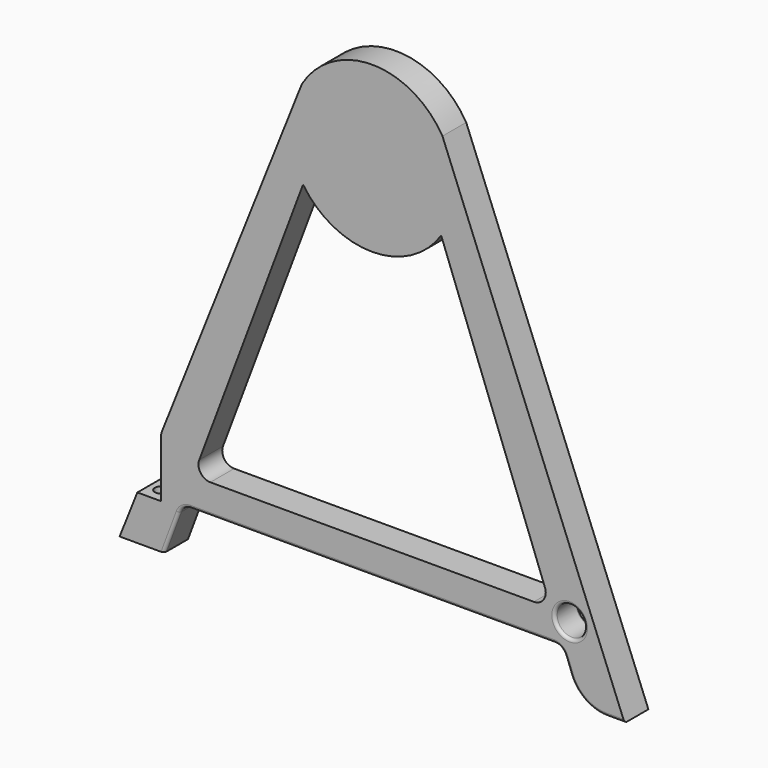
from build123d import *

# Parameters (mm, degrees)
PAD_DEPTH       = 10
FILLET_R        = 4
SKETCH002_R     = 2.1
POCKET001_DEPTH = 167.501
SKETCH003_W     = 26
SKETCH003_H     = 25
POCKET002_DEPTH = 10.001
SKETCH004_R     = 5
POCKET003_DEPTH = 10.001
FILLET001_R     = 2
FILLET002_R     = 1
FILLET003_R     = 13
FILLET004_R     = 1
SKETCH005_R     = 9.7
POCKET004_DEPTH = 6.2
FILLET005_R     = 1
SKETCH006_R     = 9.7
POCKET_DEPTH    = 6.2


with BuildPart() as part:
    # Sketch → Pad (new body)
    with BuildSketch(Plane.XZ):
        with BuildLine():
            ThreePointArc((23.669601, 154), (0, 167.5), (-23.669601, 154))
            Line((-23.669601, 154), (-85, 0))
            Line((-85, 0), (-70, 0))
            Line((-70, 0), (-63.987018, 16))
            Line((-63.987018, 16), (63.987018, 16))
            Line((63.987018, 16), (70, 0))
            Line((70, 0), (85, 0))
            Line((85, 0), (23.669601, 154))
        make_face()
        with BuildLine():
            Line((-60.228905, 26), (60.228905, 26))
            Line((23.25, 124.397516), (60.228905, 26))
            ThreePointArc((-23.25, 124.397516), (0, 112), (23.25, 124.397516))
            Line((-60.228905, 26), (-23.25, 124.397516))
        make_face(mode=Mode.SUBTRACT)
    extrude(amount=PAD_DEPTH)

    # Fillet
    fillet_edges = [part.edges().sort_by_distance(p)[0] for p in [
        (-63.987018, -5, 16),
        (-60.228905, -5, 26),
        (60.228905, -5, 26),
        (63.987018, -5, 16),
    ]]
    fillet(fillet_edges, radius=FILLET_R)

    # Sketch002 → Pocket001 (cut, through all)
    with BuildSketch(Plane(origin=(0, 0, 0), x_dir=(1, 0, 0), z_dir=(0, 0, -1))):
        with Locations((-75, 5)):
            Circle(SKETCH002_R)
    extrude(amount=-POCKET001_DEPTH, mode=Mode.SUBTRACT)

    # Sketch003 (on Face5 of Pocket001) → Pocket002 (cut, through all)
    with BuildSketch(Plane.XZ.offset(10)):
        with Locations((-84, 27.5)):
            Rectangle(SKETCH003_W, SKETCH003_H)
    extrude(amount=-POCKET002_DEPTH, mode=Mode.SUBTRACT)

    # Sketch004 → Pocket003 (cut, through all)
    with BuildSketch(Plane.XZ.offset(10)):
        with Locations((66.5, 24)):
            Circle(SKETCH004_R)
    extrude(amount=-POCKET003_DEPTH, mode=Mode.SUBTRACT)

    # Fillet001
    fillet001_edges = [part.edges().sort_by_distance(p)[0] for p in [
        (-23.669601, -5, 154),
        (-71, -5, 35.153856),
    ]]
    fillet(fillet001_edges, radius=FILLET001_R)

    # Fillet002
    fillet002_edges = [part.edges().sort_by_distance(p)[0] for p in [
        (61.5, -10, 24),
    ]]
    fillet(fillet002_edges, radius=FILLET002_R)

    # Fillet003
    fillet003_edges = [part.edges().sort_by_distance(p)[0] for p in [
        (70, -5, 0),
    ]]
    fillet(fillet003_edges, radius=FILLET003_R)

    # Fillet004
    fillet004_edges = [part.edges().sort_by_distance(p)[0] for p in [
        (63.494331, -10, 15.288512),
        (65.897287, -10, 10.916949),
    ]]
    fillet(fillet004_edges, radius=FILLET004_R)

    # Sketch005 (on Face1 of Fillet004) → Pocket004 (cut)
    with BuildSketch(Plane(origin=(0, 0, 0), x_dir=(1, 0, 0), z_dir=(0, 0, -1))):
        with Locations((0, -140)):
            Circle(SKETCH005_R)
    extrude(amount=-POCKET004_DEPTH, mode=Mode.SUBTRACT)

    # Fillet005
    fillet005_edges = [part.edges().sort_by_distance(p)[0] for p in [
        (61.5, 0, 24),
    ]]
    fillet(fillet005_edges, radius=FILLET005_R)

    # Sketch006 (on Face1 of Fillet005) → Pocket (cut)
    with BuildSketch(Plane(origin=(0, 0, 0), x_dir=(1, 0, 0), z_dir=(0, 1, 0))):
        with Locations((0, -140)):
            Circle(SKETCH006_R)
    extrude(amount=-POCKET_DEPTH, mode=Mode.SUBTRACT)


solid = part.part
